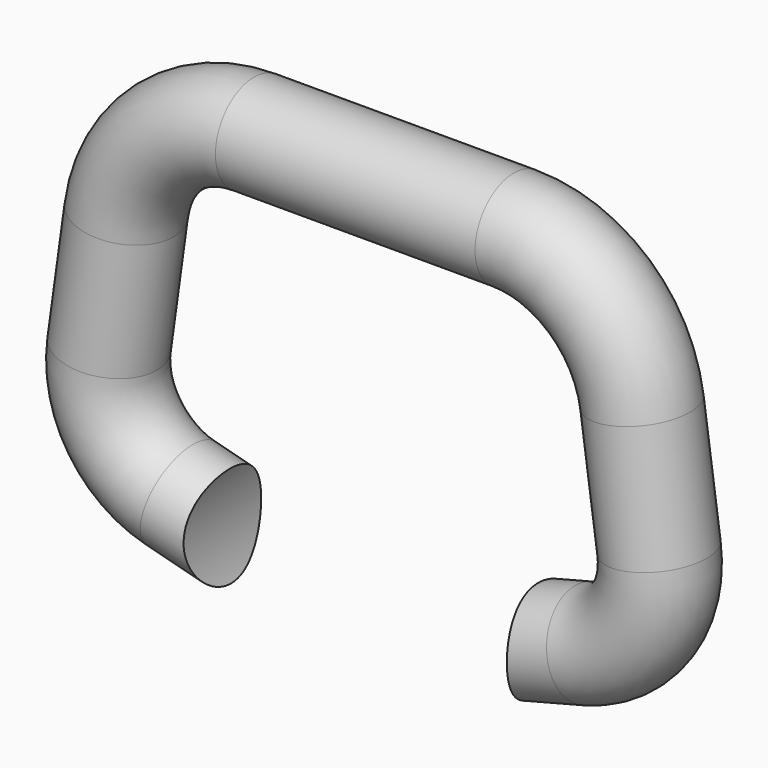
from build123d import *

# Parameters (mm, degrees)
F1_R          = 15
F4_DEPTH      = 15.0010001
F4_DEPTH_BACK = 15.0010001


with BuildPart() as f2:
    # F2: sweep along a path in F0
    with BuildLine(Plane.XZ) as f2_path:
        Line((0, -12.9099444874), (-62.8431858703, 3.3160963325))
        ThreePointArc((-62.8431858703, 3.3160963325), (-80.2682122339, 15.6678713866), (-85.0590780928, 36.4824214677))
        Line((-85.0590780928, 36.4824214677), (-79.7831982043, 74.5449074598))
        ThreePointArc((-79.7831982043, 74.5449074598), (-66.4329303758, 99.2165061576), (-40.1620085743, 109.052974075))
        Line((-40.1620085743, 109.052974075), (0, 109.052974075))
    # F1 (on Right) → F2 (sweep)
    with BuildSketch(Plane.YZ):
        with Locations((0, 109.052974075)):
            Circle(F1_R)
    sweep(path=f2_path.line)

    # F3: sweep along a path in F0
    with BuildLine(Plane.XZ) as f3_path:
        Line((0, 109.052974075), (40.1620085743, 109.052974075))
        ThreePointArc((40.1620085743, 109.052974075), (66.4329303758, 99.2165061576), (79.7831982043, 74.5449074598))
        Line((79.7831982043, 74.5449074598), (85.0590780928, 36.4824214677))
        ThreePointArc((85.0590780928, 36.4824214677), (80.2682122339, 15.6678713866), (62.8431858703, 3.3160963325))
        Line((62.8431858703, 3.3160963325), (0, -12.9099444874))
    # F1 (on Right) → F3 (sweep)
    with BuildSketch(Plane.YZ):
        with Locations((0, 109.052974075)):
            Circle(F1_R)
    sweep(path=f3_path.line)

    # F0 (on Front) → F4 (cut, two sides)
    with BuildSketch(Plane.XZ) as f4_sk:
        with BuildLine():
            Line((0, -12.9099444874), (50, 0))
            ThreePointArc((50, 0), (0, 50), (-50, 0))
            Line((-50, 0), (0, -12.9099444874))
        make_face()
        with BuildLine():
            ThreePointArc((-50, 0), (0, -50), (50, 0))
            Line((50, 0), (0, -12.9099444874))
            Line((0, -12.9099444874), (-50, 0))
        make_face()
    extrude(amount=-F4_DEPTH, mode=Mode.SUBTRACT)
    extrude(f4_sk.sketch, amount=F4_DEPTH_BACK, mode=Mode.SUBTRACT)


solid = f2.part
